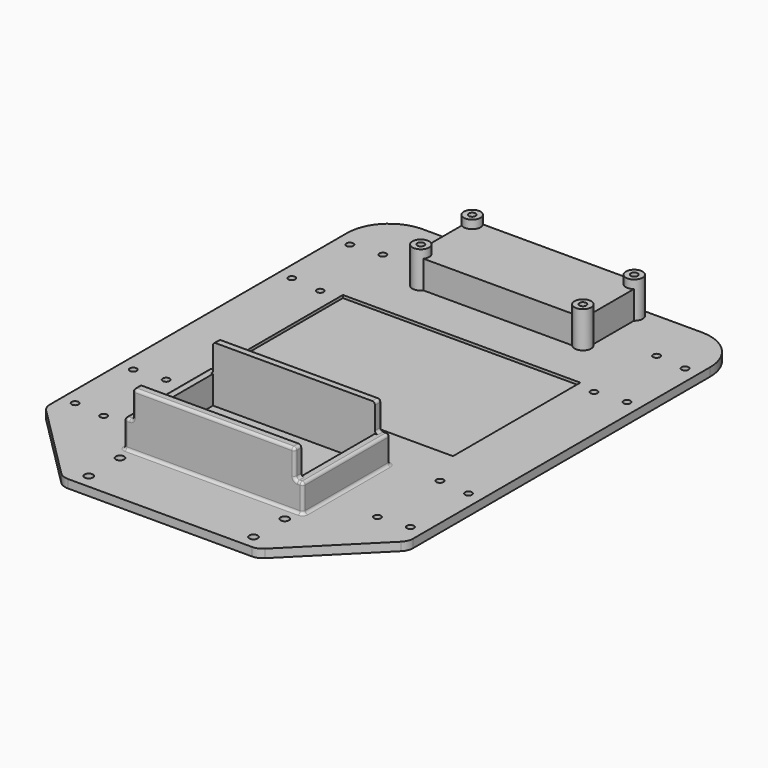
from build123d import *

# Parameters (mm, degrees)
SKETCH_W        = 130
SKETCH_H        = 180
PAD_DEPTH       = 3
CHAMFER_SIZE    = 30
CHAMFER001_SIZE = 30
FILLET_R        = 5
FILLET001_R     = 5
FILLET002_R     = 5
FILLET003_R     = 5
FILLET004_R     = 15
FILLET005_R     = 15
SKETCH003_R     = 3
PAD003_DEPTH    = 13
SKETCH004_R     = 1.25
POCKET002_DEPTH = 16.001
SKETCH005_W     = 85
SKETCH005_H     = 57
POCKET003_DEPTH = 1
SKETCH006_W     = 58
SKETCH006_H     = 3
PAD004_DEPTH    = 20
SKETCH007_W     = 3
SKETCH007_H     = 39
PAD005_DEPTH    = 10
FILLET013_R     = 1
FILLET014_R     = 1
FILLET015_R     = 1
FILLET016_R     = 1
FILLET017_R     = 1
FILLET018_R     = 1
FILLET019_R     = 1
FILLET020_R     = 1
FILLET021_R     = 1
FILLET022_R     = 1
FILLET023_R     = 1
FILLET024_R     = 1
FILLET025_R     = 1
SKETCH008_R     = 1.25
SKETCH008_R_2   = 1
POCKET004_DEPTH = 3.001
SKETCH009_R     = 1.5
POCKET005_DEPTH = 3.001
SKETCH010_W     = 61.6
SKETCH010_H     = 26.6
PAD006_DEPTH    = 10
SKETCH011_R     = 1.25
POCKET006_DEPTH = 16.001
SKETCH012_R     = 1.25
POCKET007_DEPTH = 3.001


with BuildPart() as part:
    # Sketch → Pad (new body)
    with BuildSketch(Plane.XY):
        Rectangle(SKETCH_W, SKETCH_H)
    extrude(amount=PAD_DEPTH)

    # Chamfer
    chamfer_edges = [part.edges().sort_by_distance(p)[0] for p in [
        (65, -90, 1.5),
    ]]
    chamfer(chamfer_edges, length=CHAMFER_SIZE)

    # Chamfer001
    chamfer001_edges = [part.edges().sort_by_distance(p)[0] for p in [
        (-65, -90, 1.5),
    ]]
    chamfer(chamfer001_edges, length=CHAMFER001_SIZE)

    # Fillet
    fillet_edges = [part.edges().sort_by_distance(p)[0] for p in [
        (65, -60, 1.5),
    ]]
    fillet(fillet_edges, radius=FILLET_R)

    # Fillet001
    fillet001_edges = [part.edges().sort_by_distance(p)[0] for p in [
        (35, -90, 1.5),
    ]]
    fillet(fillet001_edges, radius=FILLET001_R)

    # Fillet002
    fillet002_edges = [part.edges().sort_by_distance(p)[0] for p in [
        (-35, -90, 1.5),
    ]]
    fillet(fillet002_edges, radius=FILLET002_R)

    # Fillet003
    fillet003_edges = [part.edges().sort_by_distance(p)[0] for p in [
        (-65, -60, 1.5),
    ]]
    fillet(fillet003_edges, radius=FILLET003_R)

    # Fillet004
    fillet004_edges = [part.edges().sort_by_distance(p)[0] for p in [
        (-65, 90, 1.5),
    ]]
    fillet(fillet004_edges, radius=FILLET004_R)

    # Fillet005
    fillet005_edges = [part.edges().sort_by_distance(p)[0] for p in [
        (65, 90, 1.5),
    ]]
    fillet(fillet005_edges, radius=FILLET005_R)

    # Sketch003 (on Face14 of Fillet005) → Pad003 (join)
    with BuildSketch(Plane.XY.offset(3)):
        with Locations((-29, 86)):
            Circle(SKETCH003_R)
        with Locations((29, 86)):
            Circle(SKETCH003_R)
        with Locations((-29, 63)):
            Circle(SKETCH003_R)
        with Locations((29, 63)):
            Circle(SKETCH003_R)
    extrude(amount=PAD003_DEPTH)

    # Sketch004 (on Face20 of Pad003) → Pocket002 (cut, through all)
    with BuildSketch(Plane.XY.offset(16)):
        with Locations((-29, 86)):
            Circle(SKETCH004_R)
        with Locations((29, 86)):
            Circle(SKETCH004_R)
        with Locations((29, 63)):
            Circle(SKETCH004_R)
        with Locations((-29, 63)):
            Circle(SKETCH004_R)
    extrude(amount=-POCKET002_DEPTH, mode=Mode.SUBTRACT)

    # Sketch005 (on Face18 of Pocket002) → Pocket003 (cut)
    with BuildSketch(Plane.XY.offset(3)):
        with Locations((0, 16.5)):
            Rectangle(SKETCH005_W, SKETCH005_H)
    extrude(amount=-POCKET003_DEPTH, mode=Mode.SUBTRACT)

    # Sketch006 (on Face18 of Pocket003) → Pad004 (join)
    with BuildSketch(Plane.XY.offset(3)):
        with Locations((0, -28.5)):
            Rectangle(SKETCH006_W, SKETCH006_H)
        with Locations((0, -64.5)):
            Rectangle(SKETCH006_W, SKETCH006_H)
    extrude(amount=PAD004_DEPTH)

    # Sketch007 (on Face18 of Pad004) → Pad005 (join)
    with BuildSketch(Plane.XY.offset(3)):
        with Locations((30.5, -46.5)):
            Rectangle(SKETCH007_W, SKETCH007_H)
        with Locations((-30.5, -46.5)):
            Rectangle(SKETCH007_W, SKETCH007_H)
    extrude(amount=PAD005_DEPTH)

    # Fillet013
    fillet013_edges = [part.edges().sort_by_distance(p)[0] for p in [
        (-29, -28.5, 13),
    ]]
    fillet(fillet013_edges, radius=FILLET013_R)

    # Fillet014
    fillet014_edges = [part.edges().sort_by_distance(p)[0] for p in [
        (-29, -64.5, 13),
    ]]
    fillet(fillet014_edges, radius=FILLET014_R)

    # Fillet015
    fillet015_edges = [part.edges().sort_by_distance(p)[0] for p in [
        (-29, -28.5, 23),
    ]]
    fillet(fillet015_edges, radius=FILLET015_R)

    # Fillet016
    fillet016_edges = [part.edges().sort_by_distance(p)[0] for p in [
        (-29, -64.5, 23),
    ]]
    fillet(fillet016_edges, radius=FILLET016_R)

    # Fillet017
    fillet017_edges = [part.edges().sort_by_distance(p)[0] for p in [
        (-32, -46.5, 13),
    ]]
    fillet(fillet017_edges, radius=FILLET017_R)

    # Fillet018
    fillet018_edges = [part.edges().sort_by_distance(p)[0] for p in [
        (-32, -27, 7.5),
    ]]
    fillet(fillet018_edges, radius=FILLET018_R)

    # Fillet019
    fillet019_edges = [part.edges().sort_by_distance(p)[0] for p in [
        (-32, -66, 7.5),
    ]]
    fillet(fillet019_edges, radius=FILLET019_R)

    # Fillet020
    fillet020_edges = [part.edges().sort_by_distance(p)[0] for p in [
        (29, -28.5, 13),
    ]]
    fillet(fillet020_edges, radius=FILLET020_R)

    # Fillet021
    fillet021_edges = [part.edges().sort_by_distance(p)[0] for p in [
        (29, -64.5, 13),
    ]]
    fillet(fillet021_edges, radius=FILLET021_R)

    # Fillet022
    fillet022_edges = [part.edges().sort_by_distance(p)[0] for p in [
        (32, -46.5, 13),
    ]]
    fillet(fillet022_edges, radius=FILLET022_R)

    # Fillet023
    fillet023_edges = [part.edges().sort_by_distance(p)[0] for p in [
        (29, -27, 18),
    ]]
    fillet(fillet023_edges, radius=FILLET023_R)

    # Fillet024
    fillet024_edges = [part.edges().sort_by_distance(p)[0] for p in [
        (29, -66, 18),
    ]]
    fillet(fillet024_edges, radius=FILLET024_R)

    # Fillet025
    fillet025_edges = [part.edges().sort_by_distance(p)[0] for p in [
        (32, -46.5, 3),
    ]]
    fillet(fillet025_edges, radius=FILLET025_R)

    # Sketch008 (on Face10 of Fillet025) → Pocket004 (cut, through all)
    with BuildSketch(Plane.XY.offset(3)):
        with Locations((-60, -52.928932)):
            Circle(SKETCH008_R)
        with Locations((-49, -53.928932)):
            Circle(SKETCH008_R)
        with Locations((-60, -26.928932)):
            Circle(SKETCH008_R)
        with Locations((-49, -25.928932)):
            Circle(SKETCH008_R)
        with Locations((60, -52.928932)):
            Circle(SKETCH008_R)
        with Locations((49, -53.928932)):
            Circle(SKETCH008_R)
        with Locations((60, -26.928932)):
            Circle(SKETCH008_R)
        with Locations((49, -25.928932)):
            Circle(SKETCH008_R)
        with Locations((-60, 70)):
            Circle(SKETCH008_R)
        with Locations((-49, 71)):
            Circle(SKETCH008_R)
        with Locations((-49, 43)):
            Circle(SKETCH008_R)
        with Locations((-60, 44)):
            Circle(SKETCH008_R)
        with Locations((60, 70)):
            Circle(SKETCH008_R_2)
        with Locations((60, 44)):
            Circle(SKETCH008_R_2)
        with Locations((49, 71)):
            Circle(SKETCH008_R)
        with Locations((49, 43)):
            Circle(SKETCH008_R_2)
    extrude(amount=-POCKET004_DEPTH, mode=Mode.SUBTRACT)

    # Sketch009 (on Face10 of Pocket004) → Pocket005 (cut, through all)
    with BuildSketch(Plane.XY.offset(3)):
        with Locations((29.5, -71)):
            Circle(SKETCH009_R)
        with Locations((-29.5, -71)):
            Circle(SKETCH009_R)
        with Locations((-29.5, -85)):
            Circle(SKETCH009_R)
        with Locations((29.5, -85)):
            Circle(SKETCH009_R)
    extrude(amount=-POCKET005_DEPTH, mode=Mode.SUBTRACT)

    # Sketch010 (on Face10 of Pocket005) → Pad006 (join)
    with BuildSketch(Plane.XY.offset(3)):
        with Locations((0, 74.5)):
            Rectangle(SKETCH010_W, SKETCH010_H)
    extrude(amount=PAD006_DEPTH)

    # Sketch011 (on Face86 of Pad006) → Pocket006 (cut, through all)
    with BuildSketch(Plane.XY.offset(16)):
        with Locations((-29, 86)):
            Circle(SKETCH011_R)
        with Locations((29, 86)):
            Circle(SKETCH011_R)
        with Locations((29, 63)):
            Circle(SKETCH011_R)
        with Locations((-29, 63)):
            Circle(SKETCH011_R)
    extrude(amount=-POCKET006_DEPTH, mode=Mode.SUBTRACT)

    # Sketch012 (on Face10 of Pocket006) → Pocket007 (cut, through all)
    with BuildSketch(Plane.XY.offset(3)):
        with Locations((60, 70)):
            Circle(SKETCH012_R)
        with Locations((60, 44)):
            Circle(SKETCH012_R)
        with Locations((49, 43)):
            Circle(SKETCH012_R)
    extrude(amount=-POCKET007_DEPTH, mode=Mode.SUBTRACT)


solid = part.part
